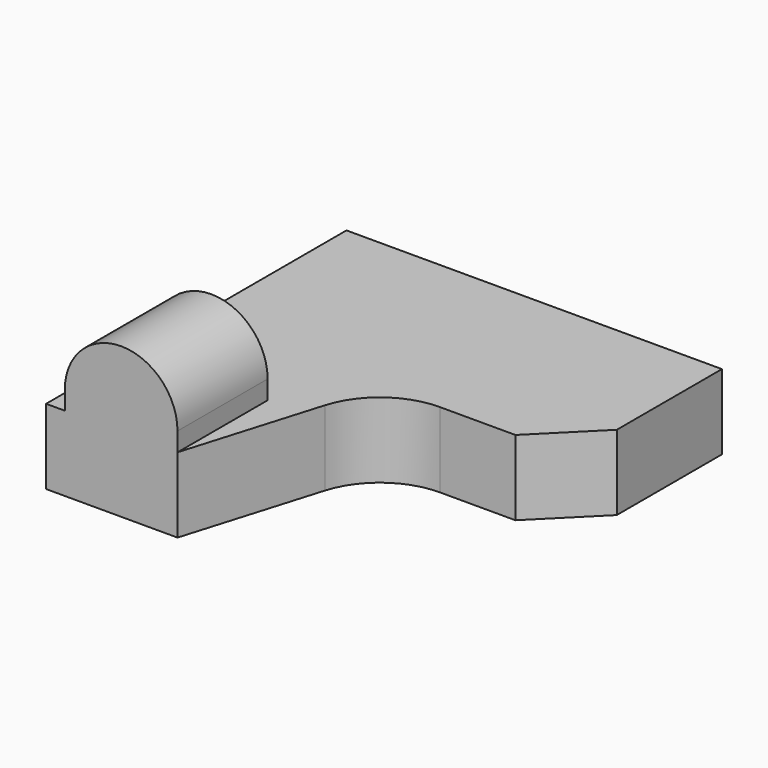
from build123d import *

# Parameters (mm, degrees)
F1_DEPTH = 20
F2_R     = 20
F4_DEPTH = 30


with BuildPart() as f1:
    # F0 (on Top) → F1 (new body)
    with BuildSketch(Plane.XY):
        Polygon((0, 100), (0, 0), (35, 0), (50, 50), (85, 50), (100, 65), (100, 100), align=None)
    extrude(amount=F1_DEPTH)

    # F2
    f2_edges = [f1.edges().sort_by_distance(p)[0] for p in [
        (50, 50, 10),
    ]]
    fillet(f2_edges, radius=F2_R)

    # F3 (on face) → F4 (join)
    with BuildSketch(Plane.XZ):
        with BuildLine():
            Line((35, 20), (35, 25))
            ThreePointArc((35, 25), (20, 40), (5, 25))
            Line((5, 25), (5, 20))
            Line((5, 20), (35, 20))
        make_face()
    extrude(amount=-F4_DEPTH)


solid = f1.part
